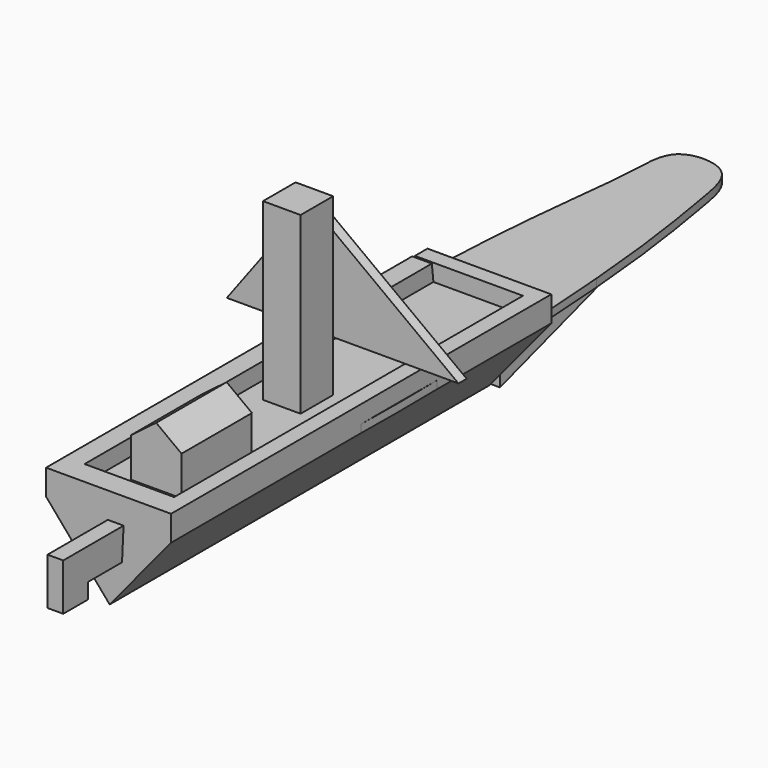
from build123d import *

# Parameters (mm, degrees)
F0_W      = 26.7850067466
F0_H      = 30.5056869984
F0_W_2    = 12.1168894693
F0_H_2    = 33.0980867147
F0_W_3    = 21.1634831503
F0_H_3    = 19.6867287159
F2_DEPTH  = 5.08
F3_DEPTH  = 295.656
F4_DEPTH  = 11.43
F5_W      = 24.2851879448
F5_H      = 26.3005495071
F6_DEPTH  = 113.03
F8_DEPTH  = 10.16
F9_W      = 80.7180516422
F9_H      = 10.9530324116
F10_DEPTH = 15.24
F11_W     = 291.846
F11_H     = 16.4758469909
F12_DEPTH = 10.16
F14_DEPTH = 10.16
F16_DEPTH = 12.7
F18_DEPTH = 6.604
F19_W     = 32.5404251926
F19_H     = 56.3616752625
F20_DEPTH = 25.4
F22_DEPTH = 56.896
F24_DEPTH = 11.684


with BuildPart() as f2:
    # F0 (on Top) → F2 (new body)
    with BuildSketch(Plane.XY):
        Polygon((38.8748385012, -220.5782085657), (38.8748385012, 56.3859827816), (25.7489401847, 56.3859827816), (-20.6735972315, 56.3859827816), (-30.1988460124, 56.3859827816), (-30.1988460124, -220.5782085657), (-20.6735972315, -220.5782085657), (-8.5567077622, -220.5782085657), (24.1141803563, -220.5782085657), align=None)
        with BuildLine():
            add(Edge.make_bspline(
                [(38.8748385012, 56.3859827816), (45.7754945346, -26.4133011189), (50.4230902449, -170.0508183116), (38.8748385012, -220.5782085657)],
                knots=[0.6665239349, 0.6665239349, 0.6665239349, 0.6665239349, 0.8397497546, 0.8397497546, 0.8397497546, 0.8397497546], degree=3))
            Line((38.8748385012, 56.3859827816), (38.8748385012, -220.5782085657))
        make_face()
        with BuildLine():
            Line((25.7489401847, 56.3859827816), (38.8748385012, 56.3859827816))
            add(Edge.make_bspline(
                [(25.7489401847, 157.7720195055), (29.6582093124, 134.5389617367), (34.6823452746, 106.6906835587), (38.8748385012, 56.3859827816)],
                knots=[0.5612805969, 0.5612805969, 0.5612805969, 0.5612805969, 0.6665239349, 0.6665239349, 0.6665239349, 0.6665239349], degree=3))
            Line((25.7489401847, 157.7720195055), (25.7489401847, 56.3859827816))
        make_face()
        Polygon((-20.6735972315, 56.3859827816), (25.7489401847, 56.3859827816), (25.7489401847, 157.7720195055), (13.3218923584, 157.7720195055), (-13.4631143883, 157.7720195055), (-20.6735972315, 157.7720195055), align=None)
        with BuildLine():
            add(Edge.make_bspline(
                [(38.8748385012, -220.5782085657), (34.6974928863, -238.8554661799), (28.4009469605, -244.9494150468), (24.1141803563, -253.6762952805)],
                knots=[0.8397497546, 0.8397497546, 0.8397497546, 0.8397497546, 0.902410678, 0.902410678, 0.902410678, 0.902410678], degree=3))
            Line((38.8748385012, -220.5782085657), (24.1141803563, -220.5782085657))
            Line((24.1141803563, -220.5782085657), (24.1141803563, -253.6762952805))
        make_face()
        with BuildLine():
            Line((13.3218923584, 157.7720195055), (25.7489401847, 157.7720195055))
            add(Edge.make_bspline(
                [(13.3218923584, 188.2777065039), (21.6701078921, 182.6606005161), (23.52991592, 170.9598347334), (25.7489401847, 157.7720195055)],
                knots=[0.501541164, 0.501541164, 0.501541164, 0.501541164, 0.5612805969, 0.5612805969, 0.5612805969, 0.5612805969], degree=3))
            Line((13.3218923584, 188.2777065039), (13.3218923584, 157.7720195055))
        make_face()
        with BuildLine():
            Line((-30.1988460124, 56.3859827816), (-20.6735972315, 56.3859827816))
            Line((-20.6735972315, 56.3859827816), (-20.6735972315, 157.7720195055))
            add(Edge.make_bspline(
                [(-30.1988460124, 56.3859827816), (-26.811728067, 106.461285668), (-21.9018730118, 134.1858202728), (-20.6735972315, 157.7720195055)],
                knots=[0.284357255, 0.284357255, 0.284357255, 0.284357255, 0.3893946698, 0.3893946698, 0.3893946698, 0.3893946698], degree=3))
        make_face()
        Polygon((24.1141803563, -253.6762952805), (24.1141803563, -220.5782085657), (-8.5567077622, -220.5782085657), (-8.5567077622, -253.6762952805), (12.6067753881, -253.6762952805), align=None)
        with BuildLine():
            add(Edge.make_bspline(
                [(24.1141803563, -253.6762952805), (20.7137638143, -260.5987687077), (18.5779465707, -269.1779430091), (12.6067753881, -273.3630239964)],
                knots=[0.902410678, 0.902410678, 0.902410678, 0.902410678, 0.9521155629, 0.9521155629, 0.9521155629, 0.9521155629], degree=3))
            Line((24.1141803563, -253.6762952805), (12.6067753881, -253.6762952805))
            Line((12.6067753881, -253.6762952805), (12.6067753881, -273.3630239964))
        make_face()
        with Locations((-0.070611015, 173.0248630047)):
            Rectangle(F0_W, F0_H)
        with BuildLine():
            Line((-13.4631143883, 188.2777065039), (13.3218923584, 188.2777065039))
            add(Edge.make_bspline(
                [(-13.4631143883, 188.2777065039), (-7.010150179, 193.4612102579), (5.7938985877, 193.3429253778), (13.3218923584, 188.2777065039)],
                knots=[0.4476711989, 0.4476711989, 0.4476711989, 0.4476711989, 0.501541164, 0.501541164, 0.501541164, 0.501541164], degree=3))
        make_face()
        with BuildLine():
            Line((-30.1988460124, -220.5782085657), (-30.1988460124, 56.3859827816))
            add(Edge.make_bspline(
                [(-30.1988460124, -220.5782085657), (-37.22925168, -169.5702511067), (-35.7848201471, -26.1973081538), (-30.1988460124, 56.3859827816)],
                knots=[0.1111314354, 0.1111314354, 0.1111314354, 0.1111314354, 0.284357255, 0.284357255, 0.284357255, 0.284357255], degree=3))
        make_face()
        with BuildLine():
            add(Edge.make_bspline(
                [(-20.6735972315, 157.7720195055), (-19.9921291147, 170.8580406025), (-20.4439311833, 182.6701920516), (-13.4631143883, 188.2777065039)],
                knots=[0.3893946698, 0.3893946698, 0.3893946698, 0.3893946698, 0.4476711989, 0.4476711989, 0.4476711989, 0.4476711989], degree=3))
            Line((-20.6735972315, 157.7720195055), (-13.4631143883, 157.7720195055))
            Line((-13.4631143883, 157.7720195055), (-13.4631143883, 188.2777065039))
        make_face()
        with Locations((-14.6151524968, -237.1272519231)):
            Rectangle(F0_W_2, F0_H_2)
        with Locations((2.025033813, -263.5196596384)):
            Rectangle(F0_W_3, F0_H_3)
        with BuildLine():
            add(Edge.make_bspline(
                [(12.6067753881, -273.3630239964), (6.8542991085, -277.3948258609), (-2.4577352033, -277.3485086263), (-8.5567077622, -273.3630239964)],
                knots=[0.9521155629, 0.9521155629, 0.9521155629, 0.9521155629, 1, 1, 1, 1], degree=3))
            Line((12.6067753881, -273.3630239964), (-8.5567077622, -273.3630239964))
        make_face()
        with BuildLine():
            Line((-20.6735972315, -220.5782085657), (-30.1988460124, -220.5782085657))
            add(Edge.make_bspline(
                [(-20.6735972315, -253.6762952805), (-24.1865964905, -245.0669765103), (-27.719658883, -238.5655449448), (-30.1988460124, -220.5782085657)],
                knots=[0.050045455, 0.050045455, 0.050045455, 0.050045455, 0.1111314354, 0.1111314354, 0.1111314354, 0.1111314354], degree=3))
            Line((-20.6735972315, -253.6762952805), (-20.6735972315, -220.5782085657))
        make_face()
        with BuildLine():
            Line((-8.5567077622, -273.3630239964), (-8.5567077622, -253.6762952805))
            Line((-8.5567077622, -253.6762952805), (-20.6735972315, -253.6762952805))
            add(Edge.make_bspline(
                [(-8.5567077622, -273.3630239964), (-14.9309260863, -269.1976750112), (-17.7955285606, -260.7295875824), (-20.6735972315, -253.6762952805)],
                knots=[0, 0, 0, 0, 0.050045455, 0.050045455, 0.050045455, 0.050045455], degree=3))
        make_face()
    extrude(amount=F2_DEPTH)

    # F1 (on Front) → F3 (join)
    with BuildSketch(Plane.XZ):
        Polygon((45.5986186862, 5.5228145793), (-35.119432956, 5.5228145793), (-35.119432956, 0), (5.9476448223, -48.0060018599), (45.5986186862, 0), align=None)
    extrude(amount=F3_DEPTH)

    # F4 (add): a face of the model
    f4_faces = [f2.faces().sort_by_distance(p)[0] for p in [
        (5.5510275585, 0, -15.3852185694),
    ]]
    extrude(f4_faces, amount=F4_DEPTH)

    # F5 (on face) → F6 (join)
    with BuildSketch(Plane.XY.offset(5.5228145793)):
        with Locations((3.0658328906, -139.8739814758)):
            Rectangle(F5_W, F5_H)
    extrude(amount=F6_DEPTH)

    # F9 (on face) → F10 (join)
    with BuildSketch(Plane.XZ.offset(295.656)):
        with Locations((5.2395928651, 10.9993307851)):
            Rectangle(F9_W, F9_H)
    extrude(amount=-F10_DEPTH)

    # F11 (on face) → F12 (join)
    with BuildSketch(Plane.YZ.offset(45.5986186862)):
        with Locations((-134.493, 8.2379234955)):
            Rectangle(F11_W, F11_H)
    extrude(amount=-F12_DEPTH)

    # F13 (on face) → F14 (join)
    with BuildSketch(Plane(origin=(0, 11.43, 0), x_dir=(-1, 0, 0), z_dir=(0, 1, 0))):
        Polygon((34.3833528459, 16.4758469909), (-35.4386186862, 16.4758469909), (-35.4386186862, 5.5228145793), (35.119432956, 5.5228145793), align=None)
    extrude(amount=-F14_DEPTH)

    # F15 (on face) → F16 (join)
    with BuildSketch(Plane(origin=(-35.119432956, 0, 0), x_dir=(0, -1, 0), z_dir=(-1, 0, 0))):
        Polygon((0, 16.4758469909), (-1.27, 5.5228145793), (280.416, 5.5228145793), (280.416, 16.4758469909), align=None)
    extrude(amount=-F16_DEPTH)

    # F17 (on face) → F18 (join)
    with BuildSketch(Plane(origin=(0, -126.7237067223, 0), x_dir=(-1, 0, 0), z_dir=(0, 1, 0))):
        Polygon((-96.1642712355, 38.3932814002), (-15.208426863, 38.3932814002), (53.4943619216, 38.3932814002), (0, 110.1166829467), align=None)
    extrude(amount=F18_DEPTH)

    # F19 (on face) → F20 (join)
    with BuildSketch(Plane.XY.offset(5.5228145793)):
        with Locations((9.7597131971, -234.5397472382)):
            Rectangle(F19_W, F19_H)
    extrude(amount=F20_DEPTH)

    # F21 (on face) → F22 (join)
    with BuildSketch(Plane.XZ.offset(262.7205848694)):
        Polygon((9.6849109977, 43.171018362), (-6.5104993992, 30.9228145793), (26.0299257934, 30.9228145793), align=None)
    extrude(amount=-F22_DEPTH)

    # F23 (on Right) → F24 (join)
    with BuildSketch(Plane.YZ):
        Polygon((162.2316092253, 0), (12.3808393255, 0), (12.3808393255, -47.9061752558), align=None)
    extrude(amount=F24_DEPTH)


with BuildPart() as f8:
    # F7 (on face) → F8 (new body)
    with BuildSketch(Plane.YZ.offset(15.208426863)):
        Polygon((-297.2323298454, -20.3589573503), (-295.9831655025, 0), (-344.7013199329, 0), (-344.7013199329, -30.3524285555), (-324.7143924236, -30.3524285555), (-324.7143924236, -20.3589573503), align=None)
    extrude(amount=-F8_DEPTH)


solid = Compound([f2.part, f8.part])
